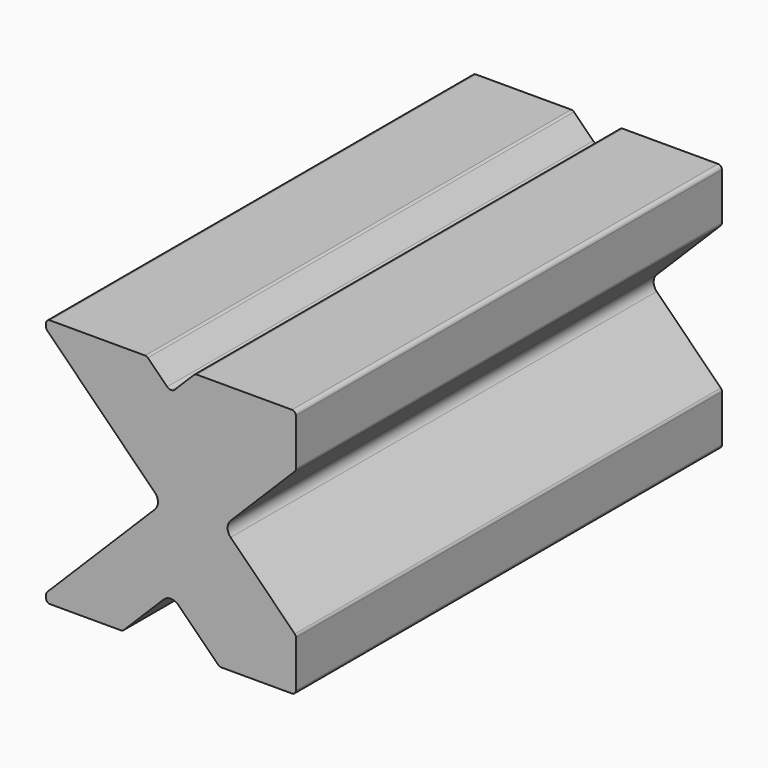
from build123d import *

# Parameters (mm, degrees)
F0_W     = 81.915
F0_H     = 81.915
F1_DEPTH = 174.625
F3_DEPTH = 174.626
F5_DEPTH = 174.626
F7_DEPTH = 174.626
F9_DEPTH = 174.626
F10_R    = 1.27
F11_R    = 1.778
F12_R    = 3.429


with BuildPart() as f1:
    # F0 (on Front) → F1 (new body)
    with BuildSketch(Plane.XZ):
        Rectangle(F0_W, F0_H)
    extrude(amount=F1_DEPTH)

    # F2 (on face) → F3 (cut, through all)
    with BuildSketch(Plane.XZ.offset(174.625)):
        Polygon((7.9375, 40.9575), (-7.9375, 40.9575), (0, 33.02), align=None)
    extrude(amount=-F3_DEPTH, mode=Mode.SUBTRACT)

    # F4 (on face) → F5 (cut, through all)
    with BuildSketch(Plane.XZ.offset(174.625)):
        Polygon((0, -25.0825), (-15.875, -40.9575), (15.875, -40.9575), align=None)
    extrude(amount=-F5_DEPTH, mode=Mode.SUBTRACT)

    # F6 (on face) → F7 (cut, through all)
    with BuildSketch(Plane.XZ.offset(174.625)):
        Polygon((-2.8575, 0), (-40.9575, 38.1), (-40.9575, -38.1), align=None)
    extrude(amount=-F7_DEPTH, mode=Mode.SUBTRACT)

    # F8 (on face) → F9 (cut, through all)
    with BuildSketch(Plane.XZ.offset(174.625)):
        Polygon((40.9575, -23.8125), (40.9575, 23.8125), (17.145, 0), align=None)
    extrude(amount=-F9_DEPTH, mode=Mode.SUBTRACT)

    # F10
    f10_edges = [f1.edges().sort_by_distance(p)[0] for p in [
        (-7.9375, -87.3125, 40.9575),
        (7.9375, -87.3125, 40.9575),
        (40.9575, -87.3125, 40.9575),
        (40.9575, -87.3125, 23.8125),
        (40.9575, -87.3125, -23.8125),
        (40.9575, -87.3125, -40.9575),
        (15.875, -87.3125, -40.9575),
        (-15.875, -87.3125, -40.9575),
        (-40.9575, -87.3125, -40.9575),
        (-40.9575, -87.3125, -38.1),
        (-40.9575, -87.3125, 38.1),
        (-40.9575, -87.3125, 40.9575),
    ]]
    fillet(f10_edges, radius=F10_R)

    # F11
    f11_edges = [f1.edges().sort_by_distance(p)[0] for p in [
        (0, -87.3125, 33.02),
    ]]
    fillet(f11_edges, radius=F11_R)

    # F12
    f12_edges = [f1.edges().sort_by_distance(p)[0] for p in [
        (0, -87.3125, -25.0825),
        (17.145, -87.3125, 0),
        (-2.8575, -87.3125, 0),
    ]]
    fillet(f12_edges, radius=F12_R)


solid = f1.part
